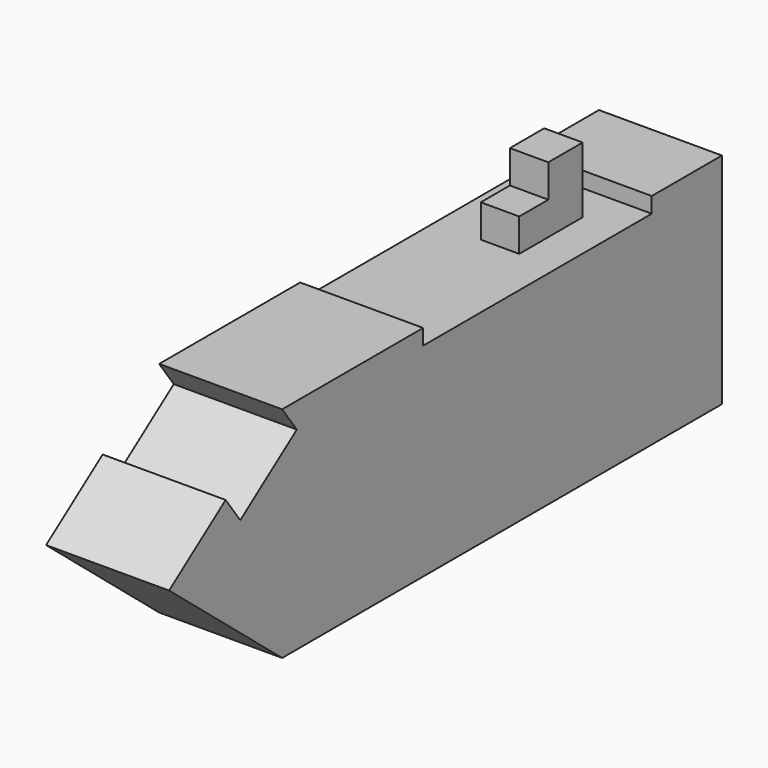
from build123d import *

# Parameters (mm, degrees)
F1_DEPTH  = 18.034
F2_R      = 6.0450244322
F2_R_2    = 6.2773017577
F3_DEPTH  = 11.938
F4_W      = 18.034
F4_H      = 12.7806511284
F5_DEPTH  = 4.572
F7_DEPTH  = 6.096
F8_W      = 18.034
F8_H      = 41.8857587501
F9_DEPTH  = 2.286
F10_W     = 5.6385421194
F10_H     = 6.2931925058
F11_DEPTH = 9.652
F12_W     = 5.6385421194
F12_H     = 4.826
F13_DEPTH = 5.334


with BuildPart() as f1:
    # F0 (on Right) → F1 (new body)
    with BuildSketch(Plane.YZ):
        Polygon((39.2854847014, 32.0903435349), (-41.3001254201, 32.0903435349), (-62.0221421123, 17.1244423836), (-41.3001254201, 0), (39.2854847014, 0), align=None)
    extrude(amount=F1_DEPTH)

    # F2 (on face) → F3 (cut)
    with BuildSketch(Plane(origin=(0, 39.2854847014, 0), x_dir=(-1, 0, 0), z_dir=(0, 1, 0))):
        with Locations((-9.5175812021, 23.9161904901)):
            Circle(F2_R)
        with Locations((-9.0148737654, 9.5570040867)):
            Circle(F2_R_2)
    extrude(amount=-F3_DEPTH, mode=Mode.SUBTRACT)

    # F4 (on face) → F5 (cut)
    with BuildSketch(Plane(origin=(0, -29.3891718919, 40.6926989799), x_dir=(1, 0, 0), z_dir=(0, -0.5854905592, 0.8106792246))):
        with Locations((9.017, -21.0828860338)):
            Rectangle(F4_W, F4_H)
    extrude(amount=-F5_DEPTH, mode=Mode.SUBTRACT)

    # F6 (on face) → F7 (cut)
    with BuildSketch(Plane(origin=(0, 0, 0), x_dir=(1, 0, 0), z_dir=(0, 0, -1))):
        Polygon((4.0432531387, 26.875609532), (4.0432531387, -24.9088313431), (14.6540477872, -24.865726009), (14.6540477872, 26.875609532), align=None)
    extrude(amount=-F7_DEPTH, mode=Mode.SUBTRACT)

    # F8 (on face) → F9 (cut)
    with BuildSketch(Plane.XY.offset(32.0903435349)):
        with Locations((9.017, 5.4818768986)):
            Rectangle(F8_W, F8_H)
    extrude(amount=-F9_DEPTH, mode=Mode.SUBTRACT)

    # F10 (on face) → F11 (join)
    with BuildSketch(Plane.XY.offset(29.8043435349)):
        with Locations((9.5915335696, 17.6502466202)):
            Rectangle(F10_W, F10_H)
    extrude(amount=F11_DEPTH)

    # F12 (on face) → F13 (join)
    with BuildSketch(Plane.XZ.offset(-14.5036503673)):
        with Locations((9.5915335696, 32.2173435349)):
            Rectangle(F12_W, F12_H)
    extrude(amount=F13_DEPTH)


solid = f1.part
